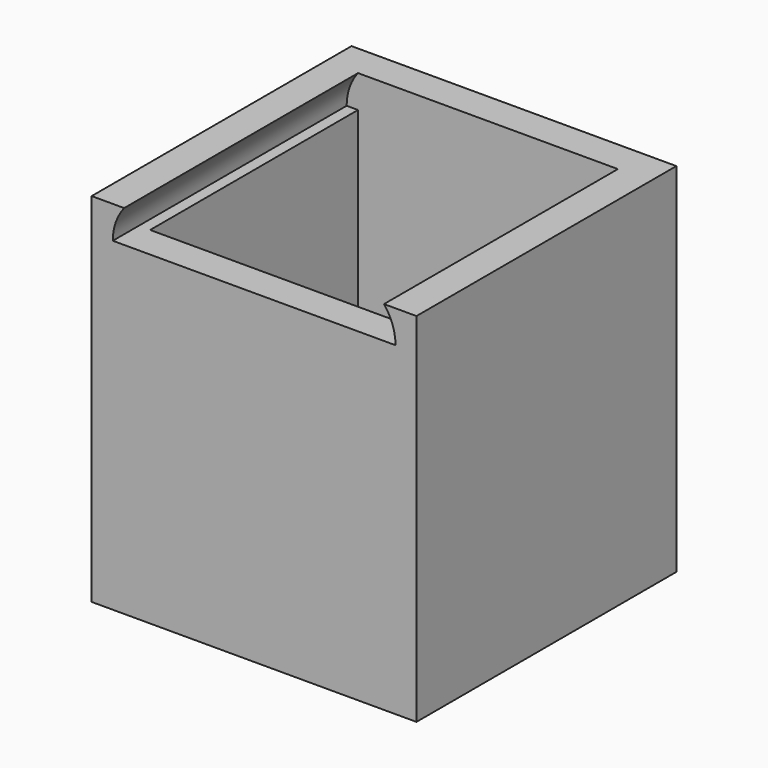
from build123d import *

# Parameters (mm, degrees)
F0_W     = 25.4
F0_H     = 27.94
F1_DEPTH = 25.4
F2_T     = -2.54
F4_DEPTH = 22.86


with BuildPart() as f1:
    # F0 (on Front) → F1 (new body)
    with BuildSketch(Plane.XZ):
        Rectangle(F0_W, F0_H)
    extrude(amount=F1_DEPTH)

    # F2
    f2_openings = [f1.faces().sort_by_distance(p)[0] for p in [
        (0, -12.7, 13.97),
    ]]
    offset(amount=F2_T, openings=f2_openings)

    # F3 (on face) → F4 (cut)
    with BuildSketch(Plane.XZ.offset(25.4)):
        with BuildLine():
            Line((-11.049, 11.43), (11.061186, 11.43))
            ThreePointArc((11.061186, 11.43), (10.829213, 12.777566), (10.16, 13.97))
            Line((10.16, 13.97), (-10.16, 13.97))
            ThreePointArc((-10.16, 13.97), (-10.820331, 12.775541), (-11.049, 11.43))
        make_face()
    extrude(amount=-F4_DEPTH, mode=Mode.SUBTRACT)


solid = f1.part
